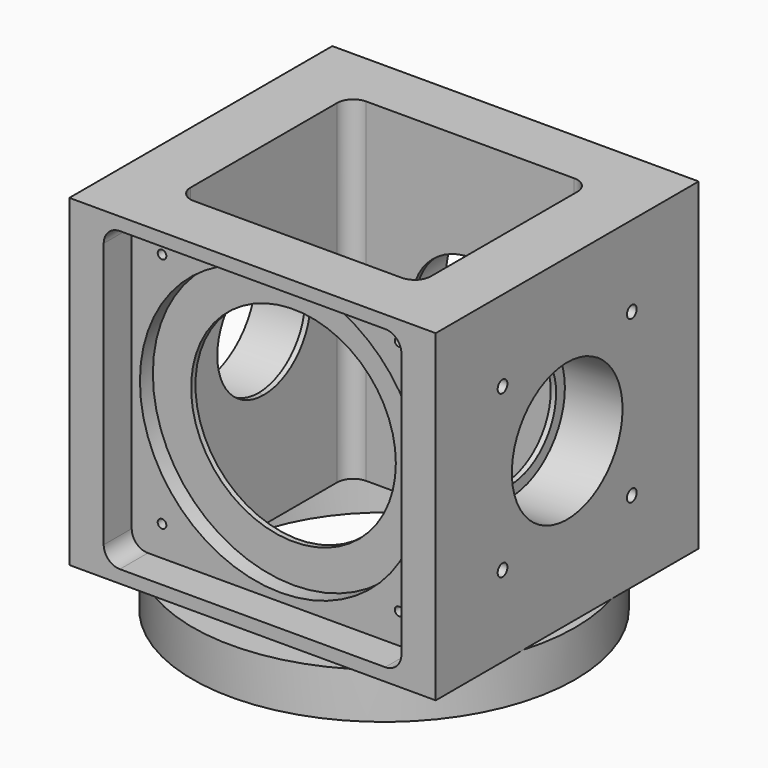
from build123d import *

# Parameters (mm, degrees)
F1_R      = 35.5
F2_DEPTH  = 8.5
F0_R      = 30.25
F3_DEPTH  = 8.5
F5_W      = 68
F5_H      = 30.5
F6_DEPTH  = 60
F7_R      = 35.25
F8_DEPTH  = 2
F9_DEPTH  = 100
F10_R     = 19
F11_DEPTH = 12
F12_R     = 26.1
F13_DEPTH = 9.5
F15_DEPTH = 6.5
F17_DEPTH = 25
F18_R     = 12.84
F19_DEPTH = 10.7
F20_R     = 10.8
F21_DEPTH = 25
F22_R     = 12.84
F23_DEPTH = 9.5
F24_R     = 0.8
F25_DEPTH = 3
F26_R     = 2.55
F27_DEPTH = 5
F28_R     = 10.8
F29_DEPTH = 25
F30_R     = 12.84
F31_DEPTH = 10.7
F32_R     = 1.13
F33_DEPTH = 6
F34_R     = 1.13
F35_DEPTH = 6


with BuildPart() as f2:
    # F1 (on Top) → F2 (new body)
    with BuildSketch(Plane.XY):
        Circle(F1_R)
    extrude(amount=F2_DEPTH)

    # F0 (on Top) → F3 (cut)
    with BuildSketch(Plane.XY):
        Circle(F0_R)
    extrude(amount=F3_DEPTH, mode=Mode.SUBTRACT)

    # F5 (on face) → F6 (join)
    with BuildSketch(Plane.XY.offset(8.5)):
        with Locations((0, 15.25)):
            Rectangle(F5_W, F5_H)
        with Locations((0, -15.25)):
            Rectangle(F5_W, F5_H)
    extrude(amount=F6_DEPTH)

    # F7 (on face) → F8 (join)
    with BuildSketch(Plane(origin=(0, 0, 8.5), x_dir=(1, 0, 0), z_dir=(0, 0, -1))):
        Circle(F7_R)
    extrude(amount=F8_DEPTH)

    # F4 (on face) → F9 (cut, symmetric)
    with BuildSketch(Plane.XY.offset(8.5)):
        with BuildLine():
            Line((-19.3, -20), (19.3, -20))
            ThreePointArc((19.3, -20), (21.4213203436, -19.1213203436), (22.3, -17))
            Line((22.3, -17), (22.3, 17))
            ThreePointArc((22.3, 17), (21.4213203436, 19.1213203436), (19.3, 20))
            Line((19.3, 20), (-19.3, 20))
            ThreePointArc((-19.3, 20), (-21.4213203436, 19.1213203436), (-22.3, 17))
            Line((-22.3, 17), (-22.3, -17))
            ThreePointArc((-22.3, -17), (-21.4213203436, -19.1213203436), (-19.3, -20))
        make_face()
    extrude(amount=F9_DEPTH, both=True, mode=Mode.SUBTRACT)

    # F10 (on face) → F11 (cut)
    with BuildSketch(Plane.XZ.offset(30.5)):
        with Locations((0, 38.5)):
            Circle(F10_R)
    extrude(amount=-F11_DEPTH, mode=Mode.SUBTRACT)

    # F12 (on face) → F13 (cut)
    with BuildSketch(Plane.XZ.offset(30.5)):
        with Locations((0, 38.5)):
            Circle(F12_R)
    extrude(amount=-F13_DEPTH, mode=Mode.SUBTRACT)

    # F14 (on face) → F15 (cut)
    with BuildSketch(Plane.XZ.offset(30.5)):
        with BuildLine():
            Line((-24.625, 10.875), (24.625, 10.875))
            ThreePointArc((24.625, 10.875), (26.7463203436, 11.7536796564), (27.625, 13.875))
            Line((27.625, 13.875), (27.625, 63.125))
            ThreePointArc((27.625, 63.125), (26.7463203436, 65.2463203436), (24.625, 66.125))
            Line((24.625, 66.125), (-24.625, 66.125))
            ThreePointArc((-24.625, 66.125), (-26.7463203436, 65.2463203436), (-27.625, 63.125))
            Line((-27.625, 63.125), (-27.625, 13.875))
            ThreePointArc((-27.625, 13.875), (-26.7463203436, 11.7536796564), (-24.625, 10.875))
        make_face()
    extrude(amount=-F15_DEPTH, mode=Mode.SUBTRACT)

    # F16 (on face) → F17 (cut)
    with BuildSketch(Plane(origin=(-34, 0, 0), x_dir=(0, -1, 0), z_dir=(-1, 0, 0))):
        with BuildLine():
            ThreePointArc((0, 27.7), (7.6367532368, 30.8632467632), (10.8, 38.5))
            ThreePointArc((10.8, 38.5), (-7.6367532368, 46.1367532368), (0, 27.7))
        make_face()
    extrude(amount=-F17_DEPTH, mode=Mode.SUBTRACT)

    # F18 (on face) → F19 (cut)
    with BuildSketch(Plane(origin=(-34, 0, 0), x_dir=(0, -1, 0), z_dir=(-1, 0, 0))):
        with Locations((0, 38.5)):
            Circle(F18_R)
    extrude(amount=-F19_DEPTH, mode=Mode.SUBTRACT)

    # F20 (on face) → F21 (cut)
    with BuildSketch(Plane(origin=(0, 30.5, 0), x_dir=(-1, 0, 0), z_dir=(0, 1, 0))):
        with Locations((0, 38.5)):
            Circle(F20_R)
    extrude(amount=-F21_DEPTH, mode=Mode.SUBTRACT)

    # F22 (on face) → F23 (cut)
    with BuildSketch(Plane(origin=(0, 30.5, 0), x_dir=(-1, 0, 0), z_dir=(0, 1, 0))):
        with Locations((0, 38.5)):
            Circle(F22_R)
    extrude(amount=-F23_DEPTH, mode=Mode.SUBTRACT)

    # F24 (on face) → F25 (cut)
    with BuildSketch(Plane.XZ.offset(24)):
        with Locations((-22, 60.5)):
            Circle(F24_R)
        with Locations((22, 60.5)):
            Circle(F24_R)
        with Locations((22, 16.5)):
            Circle(F24_R)
        with Locations((-22, 16.5)):
            Circle(F24_R)
    extrude(amount=-F25_DEPTH, mode=Mode.SUBTRACT)

    # F26 (on face) → F27 (cut)
    with BuildSketch(Plane(origin=(0, 30.5, 0), x_dir=(-1, 0, 0), z_dir=(0, 1, 0))):
        with Locations((-25.4, 55)):
            Circle(F26_R)
        with Locations((25.4, 55)):
            Circle(F26_R)
        with Locations((25.4, 22)):
            Circle(F26_R)
        with Locations((-25.4, 22)):
            Circle(F26_R)
    extrude(amount=-F27_DEPTH, mode=Mode.SUBTRACT)

    # F28 (on face) → F29 (cut)
    with BuildSketch(Plane.YZ.offset(34)):
        with Locations((0, 38.5)):
            Circle(F28_R)
    extrude(amount=-F29_DEPTH, mode=Mode.SUBTRACT)

    # F30 (on face) → F31 (cut)
    with BuildSketch(Plane.YZ.offset(34)):
        with Locations((0, 38.5)):
            Circle(F30_R)
    extrude(amount=-F31_DEPTH, mode=Mode.SUBTRACT)

    # F32 (on face) → F33 (cut)
    with BuildSketch(Plane.YZ.offset(34)):
        with Locations((-15, 53.5)):
            Circle(F32_R)
        with Locations((15, 53.5)):
            Circle(F32_R)
        with Locations((15, 23.5)):
            Circle(F32_R)
        with Locations((-15, 23.5)):
            Circle(F32_R)
    extrude(amount=-F33_DEPTH, mode=Mode.SUBTRACT)

    # F34 (on face) → F35 (cut)
    with BuildSketch(Plane(origin=(-34, 0, 0), x_dir=(0, -1, 0), z_dir=(-1, 0, 0))):
        with Locations((-15, 23.5)):
            Circle(F34_R)
        with Locations((15, 23.5)):
            Circle(F34_R)
        with Locations((15, 53.5)):
            Circle(F34_R)
        with Locations((-15, 53.5)):
            Circle(F34_R)
    extrude(amount=-F35_DEPTH, mode=Mode.SUBTRACT)


solid = f2.part
